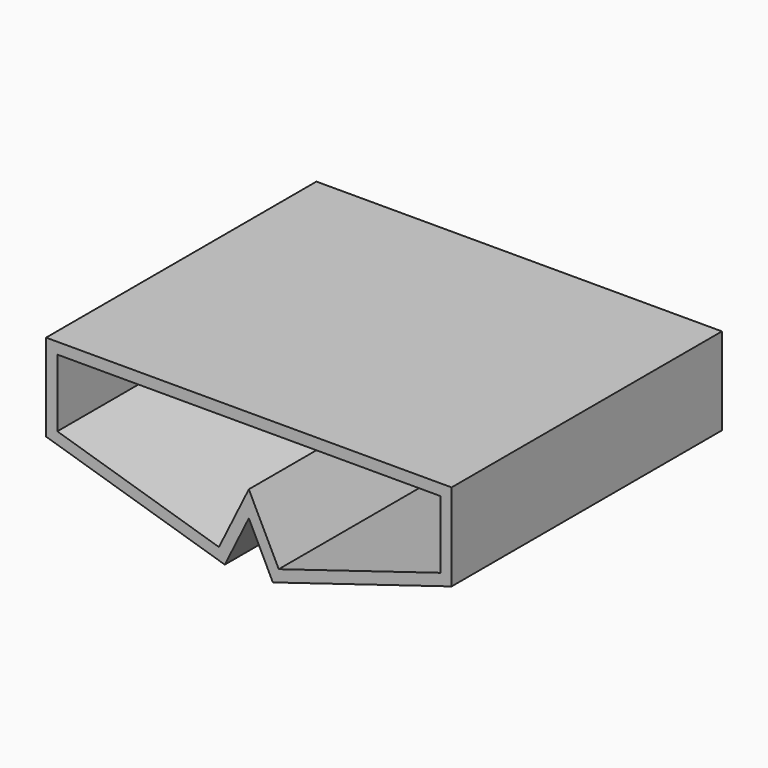
from build123d import *

# Parameters (mm, degrees)
F1_DEPTH = 150


with BuildPart() as f1:
    # F0 (on Front) → F1 (new body)
    with BuildSketch(Plane.XZ):
        Polygon((-0.930744, 18.957937), (9.735235, -2.667266), (89.069256, 21.56038), (89.069256, 60.261399), (-0.930744, 60.261399), (-90.930744, 60.261399), (-90.930744, 21.56038), (-11.596724, -2.667266), align=None)
        Polygon((84.069252, 25.261401), (12.339529, 3.356015), (-0.930744, 30.261407), (-14.201018, 3.356015), (-85.930741, 25.261401), (-85.930741, 55.261395), (-0.930744, 55.261395), (84.069252, 55.261395), align=None, mode=Mode.SUBTRACT)
    extrude(amount=F1_DEPTH)


solid = f1.part
